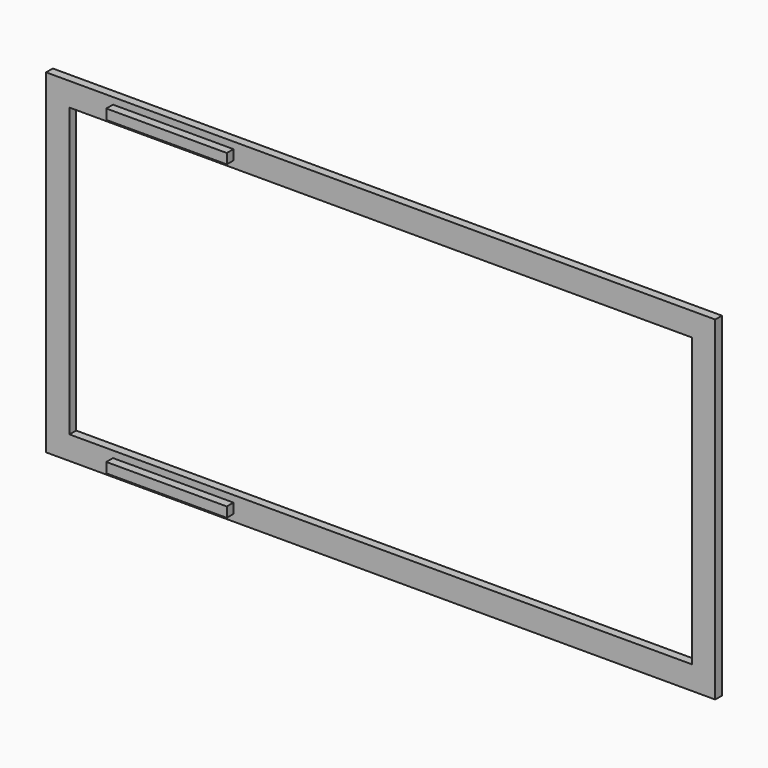
from build123d import *

# Parameters (mm, degrees)
F0_W     = 2000
F0_H     = 1000
F0_W_2   = 1860
F0_H_2   = 860
F1_DEPTH = 25
F2_W     = 360
F2_H     = 30
F3_DEPTH = 25


with BuildPart() as f1:
    # F0 (on Front) → F1 (new body)
    with BuildSketch(Plane.XZ):
        with Locations((1000, -500)):
            Rectangle(F0_W, F0_H)
        with Locations((1000, -500)):
            Rectangle(F0_W_2, F0_H_2, mode=Mode.SUBTRACT)
    extrude(amount=F1_DEPTH)

    # F2 (on face) → F3 (join)
    with BuildSketch(Plane.XZ.offset(25)):
        with Locations((380, -35)):
            Rectangle(F2_W, F2_H)
        with Locations((380, -965)):
            Rectangle(F2_W, F2_H)
    extrude(amount=F3_DEPTH)


solid = f1.part
